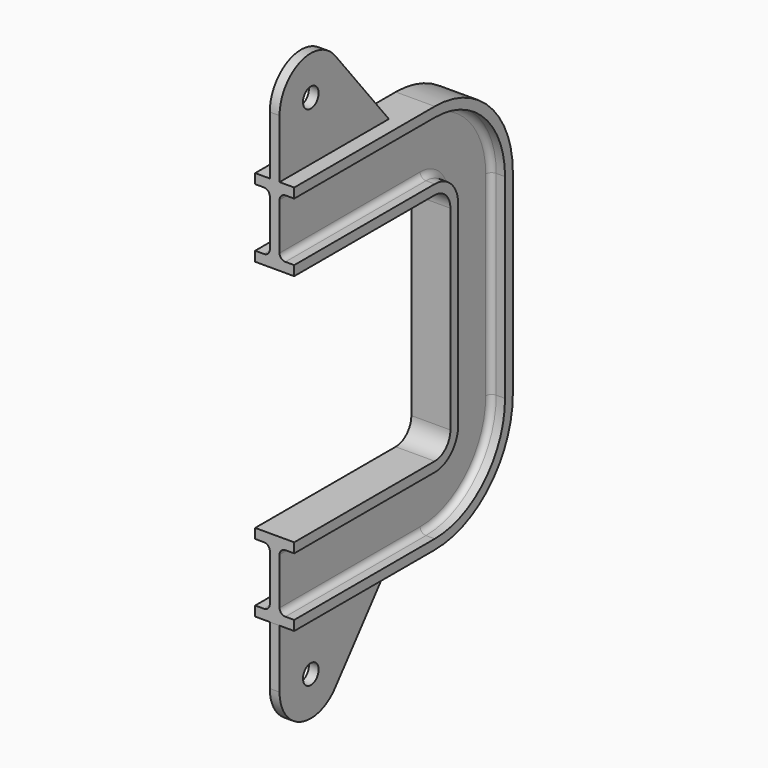
from build123d import *

# Parameters (mm, degrees)
F4_R     = 5
F5_DEPTH = 2.5
F6_DEPTH = 2.5


with BuildPart() as f2:
    # F2: sweep along a path in F1
    with BuildLine(Plane.YZ) as f2_path:
        Line((0, -20), (90, -20))
        ThreePointArc((90, -20), (97.071068, -22.928932), (100, -30))
        Line((100, -30), (100, -80))
        Line((100, -80), (100, -130))
        ThreePointArc((100, -130), (97.071068, -137.071068), (90, -140))
        Line((90, -140), (0, -140))
    # F0 (on Front) → F2 (sweep)
    with BuildSketch(Plane.XZ):
        with BuildLine():
            Line((2.5, -12), (2.5, 0))
            Line((2.5, 0), (2.5, 12))
            ThreePointArc((2.5, 12), (3.37868, 14.12132), (5.5, 15))
            Line((5.5, 15), (10, 15))
            Line((10, 15), (10, 20))
            Line((10, 20), (0, 20))
            Line((0, 20), (-10, 20))
            Line((-10, 20), (-10, 15))
            Line((-10, 15), (-5.5, 15))
            ThreePointArc((-5.5, 15), (-3.37868, 14.12132), (-2.5, 12))
            Line((-2.5, 12), (-2.5, 0))
            Line((-2.5, 0), (-2.5, -12))
            ThreePointArc((-2.5, -12), (-3.37868, -14.12132), (-5.5, -15))
            Line((-5.5, -15), (-10, -15))
            Line((-10, -15), (-10, -20))
            Line((-10, -20), (0, -20))
            Line((0, -20), (10, -20))
            Line((10, -20), (10, -15))
            Line((10, -15), (5.5, -15))
            ThreePointArc((5.5, -15), (3.37868, -14.12132), (2.5, -12))
        make_face()
    sweep(path=f2_path.line)

    # F4 (on Right) → F5 (join, symmetric)
    with BuildSketch(Plane.YZ):
        with BuildLine():
            Line((0, 50), (0, 20))
            Line((0, 20), (70, 20))
            Line((70, 20), (35.548045, 62.580075))
            ThreePointArc((35.548045, 62.580075), (13.327703, 68.854189), (0, 50))
        make_face()
        with Locations((20, 50)):
            Circle(F4_R, mode=Mode.SUBTRACT)
    extrude(amount=F5_DEPTH, both=True)

    # F4 (on Right) → F6 (join, symmetric)
    with BuildSketch(Plane.YZ):
        with BuildLine():
            Line((0, 50), (0, 20))
            Line((0, 20), (70, 20))
            Line((70, 20), (35.548045, 62.580075))
            ThreePointArc((35.548045, 62.580075), (13.327703, 68.854189), (0, 50))
        make_face()
        with Locations((20, 50)):
            Circle(F4_R, mode=Mode.SUBTRACT)
        with BuildLine():
            Line((35.548045, -222.580075), (70, -180))
            Line((70, -180), (0, -180))
            Line((0, -180), (0, -210))
            ThreePointArc((0, -210), (13.327703, -228.854189), (35.548045, -222.580075))
        make_face()
        with Locations((20, -210)):
            Circle(F4_R, mode=Mode.SUBTRACT)
    extrude(amount=F6_DEPTH, both=True)


solid = f2.part
